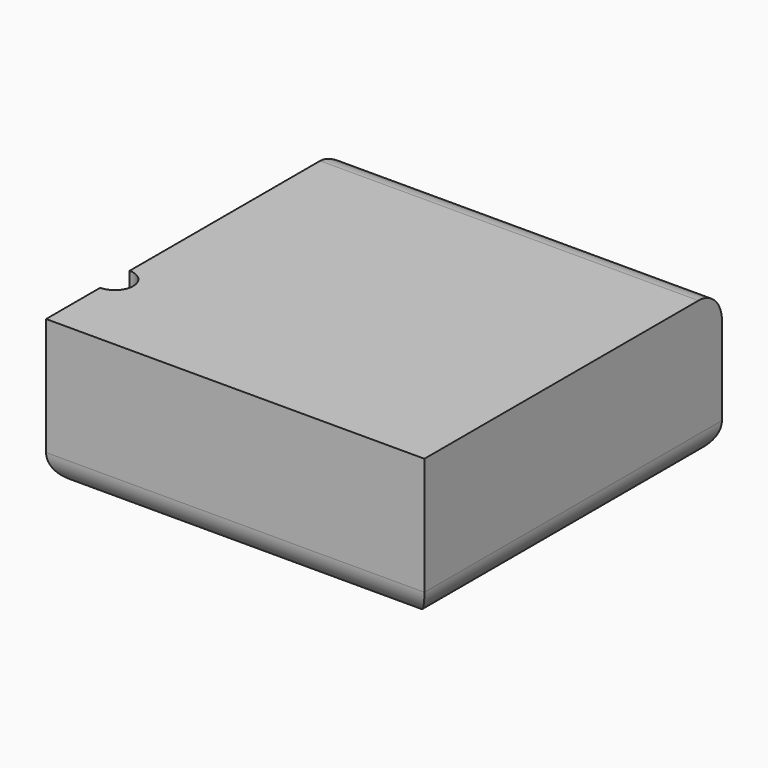
from build123d import *

# Parameters (mm, degrees)
F0_W     = 65.410413
F0_H     = 64.301759
F1_DEPTH = 25.4
F3_R     = 5.08
F4_D     = 6.35


with BuildPart() as f1:
    # F0 (on Top) → F1 (new body)
    with BuildSketch(Plane.XY):
        with Locations((10.90173, -10.716959)):
            Rectangle(F0_W, F0_H)
    extrude(amount=F1_DEPTH)

    # F3
    f3_edges = [f1.edges().sort_by_distance(p)[0] for p in [
        (10.901731, 21.43392, 25.4),
        (-21.803476, 21.43392, 12.7),
        (10.901731, 21.43392, 0),
        (-21.803476, -10.71696, 0),
        (10.901731, -42.867839, 0),
        (43.606937, -10.71696, 0),
    ]]
    fillet(f3_edges, radius=F3_R)

    # F4 (through all)
    with Locations(Plane(origin=(0, 0, 0), x_dir=(1, 0, 0), z_dir=(0, 0, -1))):
        with Locations((-21.803476, 27.994836)):
            Hole(F4_D / 2)


solid = f1.part
